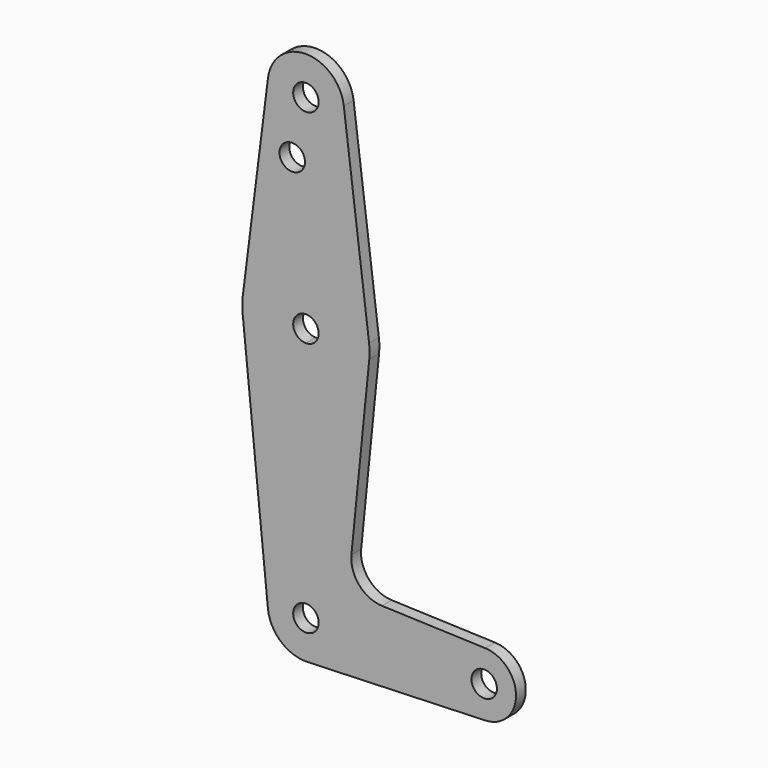
from build123d import *

# Parameters (mm, degrees)
F0_R     = 3.175
F1_DEPTH = 3.048


with BuildPart() as f1:
    # F0 (on Front) → F1 (new body)
    with BuildSketch(Plane.XZ):
        with BuildLine():
            Line((15.7504882737, 65.484375), (9.4502929642, 115.490625))
            ThreePointArc((9.4502929642, 115.490625), (0, 123.825), (-9.4502929642, 115.490625))
            Line((-9.4502929642, 115.490625), (-15.7504882737, 65.484375))
            ThreePointArc((-15.7504882737, 65.484375), (-15.8737438155, 63.6997054867), (-15.7954255641, 61.9125))
            Line((-15.7954255641, 61.9125), (-9.4772553384, -0.9525))
            ThreePointArc((-9.4772553384, -0.9525), (-6.2623833816, -7.1769199091), (0.3401785714, -9.5189234444))
            Line((0.3401785714, -9.5189234444), (44.7334821429, -7.9324362036))
            ThreePointArc((44.7334821429, -7.9324362036), (52.3875, 0), (44.7334821429, 7.9324362036))
            Line((44.7334821429, 7.9324362036), (18.9676000005, 8.8532337108))
            ThreePointArc((18.9676000005, 8.8532337108), (13.2611998974, 11.5713591498), (11.3411865923, 17.5933818124))
            Line((11.3411865923, 17.5933818124), (15.7954255641, 61.9125))
            ThreePointArc((15.7954255641, 61.9125), (15.8737438155, 63.6997054867), (15.7504882737, 65.484375))
        make_face()
        with BuildLine():
            ThreePointArc((3.175, 0), (-2.2450640303, -2.2450640303), (0, 3.175))
            ThreePointArc((0, 3.175), (2.2450640303, 2.2450640303), (3.175, 0))
        make_face(mode=Mode.SUBTRACT)
        with BuildLine():
            ThreePointArc((47.625, 0), (44.45, -3.175), (41.275, 0))
            ThreePointArc((41.275, 0), (44.45, 3.175), (47.625, 0))
        make_face(mode=Mode.SUBTRACT)
        with BuildLine():
            ThreePointArc((3.175, 63.5), (2.2450640303, 61.2549359697), (0, 60.325))
            ThreePointArc((0, 60.325), (-2.2450640303, 65.7450640303), (3.175, 63.5))
        make_face(mode=Mode.SUBTRACT)
        with Locations((-3.4159825624, 100.0252)):
            Circle(F0_R, mode=Mode.SUBTRACT)
        with Locations((0, 114.3)):
            Circle(F0_R, mode=Mode.SUBTRACT)
        with BuildLine():
            Line((15.7504882737, 65.484375), (9.4502929642, 115.490625))
            ThreePointArc((9.4502929642, 115.490625), (0, 123.825), (-9.4502929642, 115.490625))
            Line((-9.4502929642, 115.490625), (-15.7504882737, 65.484375))
            ThreePointArc((-15.7504882737, 65.484375), (-15.8737438155, 63.6997054867), (-15.7954255641, 61.9125))
            Line((-15.7954255641, 61.9125), (-9.4772553384, -0.9525))
            ThreePointArc((-9.4772553384, -0.9525), (-6.2623833816, -7.1769199091), (0.3401785714, -9.5189234444))
            Line((0.3401785714, -9.5189234444), (44.7334821429, -7.9324362036))
            ThreePointArc((44.7334821429, -7.9324362036), (52.3875, 0), (44.7334821429, 7.9324362036))
            Line((44.7334821429, 7.9324362036), (18.9676000005, 8.8532337108))
            ThreePointArc((18.9676000005, 8.8532337108), (13.2611998974, 11.5713591498), (11.3411865923, 17.5933818124))
            Line((11.3411865923, 17.5933818124), (15.7954255641, 61.9125))
            ThreePointArc((15.7954255641, 61.9125), (15.8737438155, 63.6997054867), (15.7504882737, 65.484375))
        make_face()
        with BuildLine():
            ThreePointArc((3.175, 0), (-2.2450640303, -2.2450640303), (0, 3.175))
            ThreePointArc((0, 3.175), (2.2450640303, 2.2450640303), (3.175, 0))
        make_face(mode=Mode.SUBTRACT)
        with BuildLine():
            ThreePointArc((47.625, 0), (44.45, -3.175), (41.275, 0))
            ThreePointArc((41.275, 0), (44.45, 3.175), (47.625, 0))
        make_face(mode=Mode.SUBTRACT)
        with BuildLine():
            ThreePointArc((3.175, 63.5), (2.2450640303, 61.2549359697), (0, 60.325))
            ThreePointArc((0, 60.325), (-2.2450640303, 65.7450640303), (3.175, 63.5))
        make_face(mode=Mode.SUBTRACT)
        with Locations((-3.4159825624, 100.0252)):
            Circle(F0_R, mode=Mode.SUBTRACT)
        with Locations((0, 114.3)):
            Circle(F0_R, mode=Mode.SUBTRACT)
    extrude(amount=F1_DEPTH)


solid = f1.part
